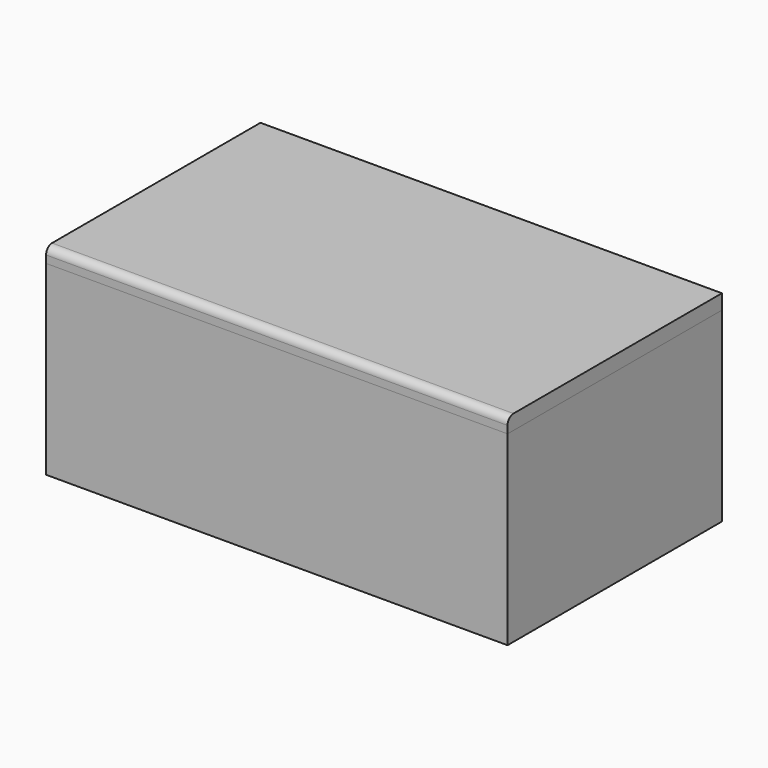
from build123d import *

# Parameters (mm, degrees)
F0_W     = 1574.8
F0_H     = 914.4
F0_W_2   = 1524
F0_H_2   = 863.6
F1_DEPTH = 635
F2_W     = 1574.8
F2_H     = 914.4
F3_DEPTH = 50.8
F4_R     = 25.4


with BuildPart() as f1:
    # F0 (on Top) → F1 (new body)
    with BuildSketch(Plane.XY):
        Rectangle(F0_W, F0_H)
        Rectangle(F0_W_2, F0_H_2, mode=Mode.SUBTRACT)
    extrude(amount=F1_DEPTH)


with BuildPart() as f3:
    # F2 (on face) → F3 (new body)
    with BuildSketch(Plane.XY.offset(635)):
        Rectangle(F2_W, F2_H)
    extrude(amount=F3_DEPTH)

    # F4
    f4_edges = [f3.edges().sort_by_distance(p)[0] for p in [
        (0, -457.2, 685.8),
    ]]
    fillet(f4_edges, radius=F4_R)


solid = Compound([f1.part, f3.part])
